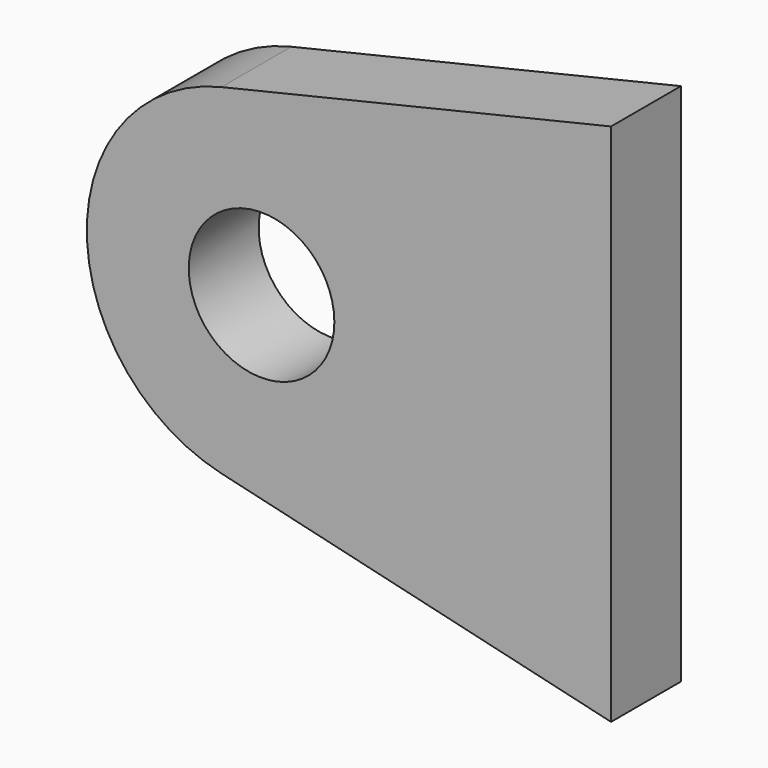
from build123d import *

# Parameters (mm, degrees)
F0_R     = 12.5
F1_DEPTH = 15


with BuildPart() as f1:
    # F0 (on Front) → F1 (new body)
    with BuildSketch(Plane.XZ):
        with BuildLine():
            ThreePointArc((-66.897273, -29.196363), (-41.384391, -23.525711), (-30, 0))
            ThreePointArc((-30, 0), (-41.384391, 23.525711), (-66.897273, 29.196363))
            ThreePointArc((-66.897273, 29.196363), (-90, 0), (-66.897273, -29.196363))
        make_face()
        with Locations((-60, 0)):
            Circle(F0_R, mode=Mode.SUBTRACT)
        with BuildLine():
            ThreePointArc((-66.897273, 29.196363), (-41.384391, 23.525711), (-30, 0))
            ThreePointArc((-30, 0), (-41.384391, -23.525711), (-66.897273, -29.196363))
            Line((-66.897273, -29.196363), (0, -45))
            Line((0, -45), (0, 45))
            Line((0, 45), (-66.897273, 29.196363))
        make_face()
    extrude(amount=F1_DEPTH)


solid = f1.part
